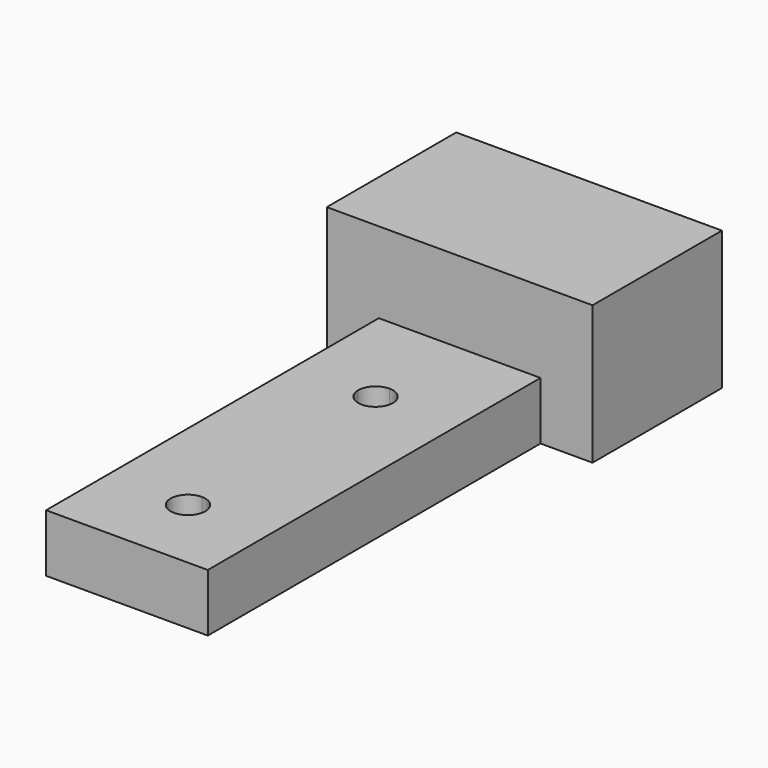
from build123d import *

# Parameters (mm, degrees)
F0_W      = 14
F0_H      = 58
F1_DEPTH  = 5
F3_DEPTH  = 25
F5_W      = 23
F5_H      = 3.5
F6_DEPTH  = 19.5
F7_W      = 14
F7_H      = 5
F8_DEPTH  = 8
F10_DEPTH = 12


with BuildPart() as f1:
    # F0 (on Top) → F1 (new body)
    with BuildSketch(Plane.XY):
        with Locations((7, 29)):
            Rectangle(F0_W, F0_H)
    extrude(amount=F1_DEPTH)

    # F2 (on face) → F3 (cut)
    with BuildSketch(Plane.XY.offset(5)):
        with BuildLine():
            ThreePointArc((8.5, 26.9), (8.0606601718, 27.9606601718), (7, 28.4))
            Line((7, 28.4), (7, 26.9))
            Line((7, 26.9), (8.5, 26.9))
        make_face()
        with BuildLine():
            Line((7, 26.9), (7, 28.4))
            ThreePointArc((7, 28.4), (5.9393398282, 27.9606601718), (5.5, 26.9))
            Line((5.5, 26.9), (7, 26.9))
        make_face()
        with BuildLine():
            Line((7, 25.4), (7, 26.9))
            Line((7, 26.9), (5.5, 26.9))
            ThreePointArc((5.5, 26.9), (5.9393398282, 25.8393398282), (7, 25.4))
        make_face()
        with BuildLine():
            Line((8.5, 26.9), (7, 26.9))
            Line((7, 26.9), (7, 25.4))
            ThreePointArc((7, 25.4), (8.0606601718, 25.8393398282), (8.5, 26.9))
        make_face()
        with BuildLine():
            ThreePointArc((8.5, 6.6), (8.0606601718, 7.6606601718), (7, 8.1))
            Line((7, 8.1), (7, 6.6))
            Line((7, 6.6), (8.5, 6.6))
        make_face()
        with BuildLine():
            Line((7, 6.6), (7, 8.1))
            ThreePointArc((7, 8.1), (5.9393398282, 5.5393398282), (8.5, 6.6))
            Line((8.5, 6.6), (7, 6.6))
        make_face()
    extrude(amount=-F3_DEPTH, mode=Mode.SUBTRACT)

    # F5 (on offset) → F6 (join)
    with BuildSketch(Plane(origin=(0, 55.5, 0), x_dir=(-1, 0, 0), z_dir=(0, 1, 0))):
        with Locations((-7, 10.25)):
            Rectangle(F5_W, F5_H)
        Polygon((-18.5, 0), (0, 0), (4.5, 0), (4.5, 8.5), (-18.5, 8.5), align=None)
    extrude(amount=-F6_DEPTH)

    # F7 (on face) → F8 (cut)
    with BuildSketch(Plane(origin=(0, 58, 0), x_dir=(-1, 0, 0), z_dir=(0, 1, 0))):
        with Locations((-7, 2.5)):
            Rectangle(F7_W, F7_H)
        Polygon((-18.5, 0), (-14, 0), (-14, 5), (0, 5), (0, 8.5), (-18.5, 8.5), align=None)
        Polygon((0, 5), (0, 0), (4.5, 0), (4.5, 8.5), (0, 8.5), align=None)
        Polygon((-18.5, 8.5), (0, 8.5), (4.5, 8.5), (4.5, 12), (-18.5, 12), align=None)
    extrude(amount=-F8_DEPTH, mode=Mode.SUBTRACT)

    # F9 (on face) → F10 (cut)
    with BuildSketch(Plane(origin=(0, 50, 0), x_dir=(-1, 0, 0), z_dir=(0, 1, 0))):
        with BuildLine():
            ThreePointArc((-10, 6), (-10.3661165235, 6.8838834765), (-11.25, 7.25))
            Line((-11.25, 7.25), (-11.25, 6))
            Line((-11.25, 6), (-12.5, 6))
            ThreePointArc((-12.5, 6), (-11.25, 4.75), (-10, 6))
        make_face()
        with BuildLine():
            Line((-11.25, 6), (-11.25, 7.25))
            ThreePointArc((-11.25, 7.25), (-12.1338834765, 6.8838834765), (-12.5, 6))
            Line((-12.5, 6), (-11.25, 6))
        make_face()
        with BuildLine():
            ThreePointArc((-1.5, 6), (-1.8661165235, 6.8838834765), (-2.75, 7.25))
            Line((-2.75, 7.25), (-2.75, 6))
            Line((-2.75, 6), (-1.5, 6))
        make_face()
        with BuildLine():
            Line((-2.75, 6), (-2.75, 7.25))
            ThreePointArc((-2.75, 7.25), (-3.6338834765, 5.1161165235), (-1.5, 6))
            Line((-1.5, 6), (-2.75, 6))
        make_face()
    extrude(amount=-F10_DEPTH, mode=Mode.SUBTRACT)


solid = f1.part
